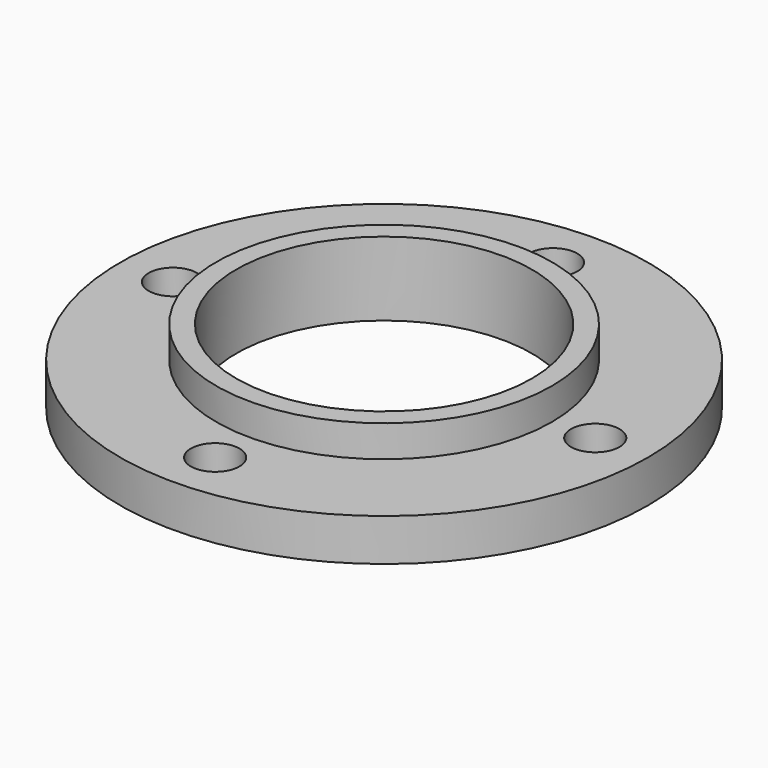
from build123d import *

# Parameters (mm, degrees)
SKETCH006_R      = 15.9
SKETCH006_R_2    = 14
EXTRUDE006_DEPTH = 3
SKETCH005_R      = 2.3
EXTRUDE005_DEPTH = 12
SKETCH004_R      = 25
SKETCH004_R_2    = 14
EXTRUDE004_DEPTH = 4


with BuildPart() as extrude006:
    # Sketch006 → Extrude006 (new body)
    with BuildSketch(Plane.XY):
        Circle(SKETCH006_R)
        Circle(SKETCH006_R_2, mode=Mode.SUBTRACT)
    extrude(amount=EXTRUDE006_DEPTH)


with BuildPart() as extrude006_1:
    # Extrude006 placement: moved
    add(extrude006.part.moved(Location((0, 0, 4))))


with BuildPart() as extrude005:
    # Sketch005 → Extrude005 (new body)
    with BuildSketch(Plane.XY):
        with Locations((-20, 0)):
            Circle(SKETCH005_R)
        with Locations((0, -20)):
            Circle(SKETCH005_R)
        with Locations((20, 0)):
            Circle(SKETCH005_R)
        with Locations((0, 20)):
            Circle(SKETCH005_R)
    extrude(amount=EXTRUDE005_DEPTH)


with BuildPart() as fusion:
    # Sketch004 → Extrude004 (new body)
    with BuildSketch(Plane.XY):
        Circle(SKETCH004_R)
        Circle(SKETCH004_R_2, mode=Mode.SUBTRACT)
    extrude(amount=EXTRUDE004_DEPTH)

    # Cut: cut Extrude005
    add(extrude005.part, mode=Mode.SUBTRACT)

    # Fusion: union Extrude006
    add(extrude006_1.part)


solid = fusion.part
